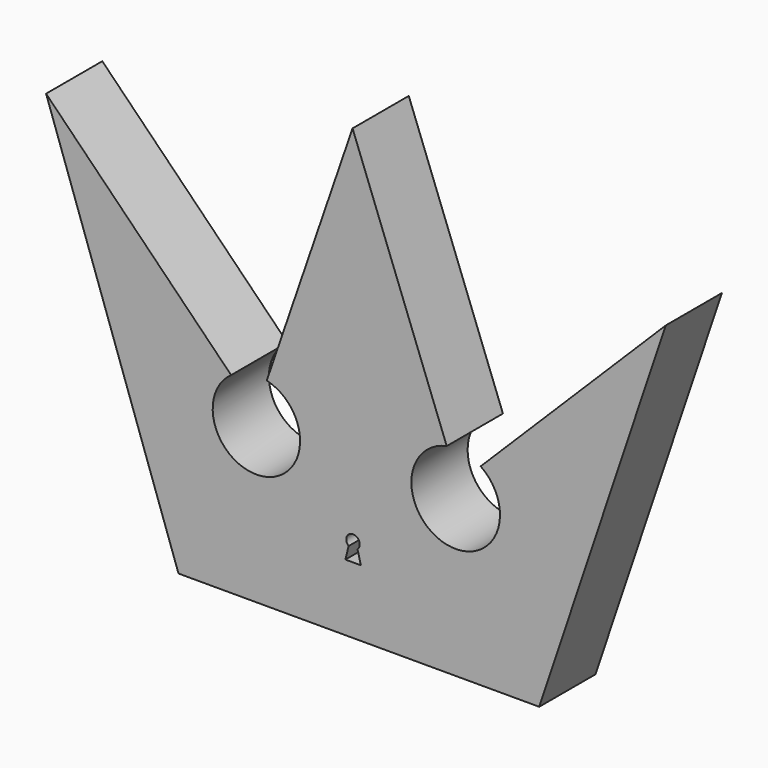
from build123d import *

# Parameters (mm, degrees)
F1_DEPTH = 80
F2_T     = -5


with BuildPart() as f1:
    # F0 (on Front) → F1 (new body)
    with BuildSketch(Plane.XZ):
        with BuildLine():
            Line((-348.8748669624, 349.0544557571), (-198.1384754181, -82.8632265329))
            Line((-198.1384754181, -82.8632265329), (212.5215083361, -82.8632265329))
            Line((212.5215083361, -82.8632265329), (356.4940690994, 346.1556732655))
            Line((356.4940690994, 346.1556732655), (145.8496451378, 136.4775151014))
            ThreePointArc((145.8496451378, 136.4775151014), (107.5303186219, 45.3719417758), (107.1992963552, 144.2075967789))
            Line((107.1992963552, 144.2075967789), (0, 427.7250468731))
            Line((0, 427.7250468731), (-97.6475700736, 143.2413309813))
            ThreePointArc((-97.6475700736, 143.2413309813), (-100.1659657794, 46.0677822233), (-138.2304430008, 135.511264205))
            Line((-138.2304430008, 135.511264205), (-348.8748669624, 349.0544557571))
        make_face()
        with BuildLine():
            ThreePointArc((-4.4474751757, 7.729579965), (-2.6813223644, 20.5003556429), (8.1768609292, 13.5496820978))
            ThreePointArc((8.1768609292, 13.5496820978), (7.5196984972, 10.4468328198), (5.6610608526, 7.8768129348))
            Line((5.6610608526, 7.8768129348), (9.4852344756, -7.0666760483))
            Line((9.4852344756, -7.0666760483), (-8.1122881109, -7.0666760483))
            Line((-8.1122881109, -7.0666760483), (-4.4474751757, 7.729579965))
        make_face(mode=Mode.SUBTRACT)
        with BuildLine():
            Line((-348.8748669624, 349.0544557571), (-198.1384754181, -82.8632265329))
            Line((-198.1384754181, -82.8632265329), (212.5215083361, -82.8632265329))
            Line((212.5215083361, -82.8632265329), (356.4940690994, 346.1556732655))
            Line((356.4940690994, 346.1556732655), (145.8496451378, 136.4775151014))
            ThreePointArc((145.8496451378, 136.4775151014), (107.5303186219, 45.3719417758), (107.1992963552, 144.2075967789))
            Line((107.1992963552, 144.2075967789), (0, 427.7250468731))
            Line((0, 427.7250468731), (-97.6475700736, 143.2413309813))
            ThreePointArc((-97.6475700736, 143.2413309813), (-100.1659657794, 46.0677822233), (-138.2304430008, 135.511264205))
            Line((-138.2304430008, 135.511264205), (-348.8748669624, 349.0544557571))
        make_face()
        with BuildLine():
            ThreePointArc((-4.4474751757, 7.729579965), (-2.6813223644, 20.5003556429), (8.1768609292, 13.5496820978))
            ThreePointArc((8.1768609292, 13.5496820978), (7.5196984972, 10.4468328198), (5.6610608526, 7.8768129348))
            Line((5.6610608526, 7.8768129348), (9.4852344756, -7.0666760483))
            Line((9.4852344756, -7.0666760483), (-8.1122881109, -7.0666760483))
            Line((-8.1122881109, -7.0666760483), (-4.4474751757, 7.729579965))
        make_face(mode=Mode.SUBTRACT)
    extrude(amount=F1_DEPTH)

    # F2
    f2_openings = [f1.faces().sort_by_distance(p)[0] for p in [
        (6.021536, 0, 100.900986),
    ]]
    offset(amount=F2_T, openings=f2_openings, kind=Kind.INTERSECTION)


solid = f1.part
